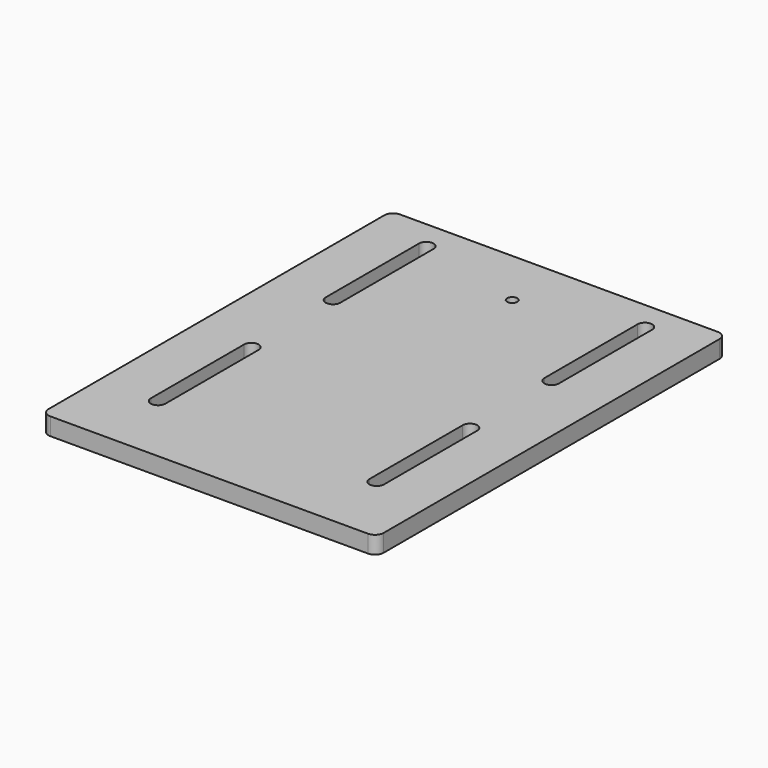
from build123d import *

# Parameters (mm, degrees)
F1_DEPTH = 6
F3_DEPTH = 6
F4_R     = 1.75
F5_DEPTH = 6


with BuildPart() as f1:
    # F0 (on Top) → F1 (new body)
    with BuildSketch(Plane.XY):
        with BuildLine():
            Line((-54.5, -75), (54.5, -75))
            ThreePointArc((54.5, -75), (56.62132, -74.12132), (57.5, -72))
            Line((57.5, -72), (57.5, 72))
            ThreePointArc((57.5, 72), (56.62132, 74.12132), (54.5, 75))
            Line((54.5, 75), (-54.5, 75))
            ThreePointArc((-54.5, 75), (-56.62132, 74.12132), (-57.5, 72))
            Line((-57.5, 72), (-57.5, -72))
            ThreePointArc((-57.5, -72), (-56.62132, -74.12132), (-54.5, -75))
        make_face()
    extrude(amount=F1_DEPTH)

    # F2 (on face) → F3 (cut, through all)
    with BuildSketch(Plane.XY.offset(6)):
        with BuildLine():
            ThreePointArc((-35, 65), (-37.5, 67.5), (-40, 65))
            Line((-40, 65), (-40, 25))
            ThreePointArc((-40, 25), (-37.5, 22.5), (-35, 25))
            Line((-35, 25), (-35, 65))
        make_face()
        with BuildLine():
            ThreePointArc((40, 65), (37.5, 67.5), (35, 65))
            Line((35, 65), (35, 25))
            ThreePointArc((35, 25), (37.5, 22.5), (40, 25))
            Line((40, 25), (40, 65))
        make_face()
        with BuildLine():
            ThreePointArc((40, -10), (37.5, -7.5), (35, -10))
            Line((35, -10), (35, -50))
            ThreePointArc((35, -50), (37.5, -52.5), (40, -50))
            Line((40, -50), (40, -10))
        make_face()
        with BuildLine():
            ThreePointArc((-35, -10), (-37.5, -7.5), (-40, -10))
            Line((-40, -10), (-40, -50))
            ThreePointArc((-40, -50), (-37.5, -52.5), (-35, -50))
            Line((-35, -50), (-35, -10))
        make_face()
    extrude(amount=-F3_DEPTH, mode=Mode.SUBTRACT)

    # F4 (on face) → F5 (cut, through all)
    with BuildSketch(Plane.XY.offset(6)):
        with Locations((0, 55)):
            Circle(F4_R)
    extrude(amount=-F5_DEPTH, mode=Mode.SUBTRACT)


solid = f1.part
